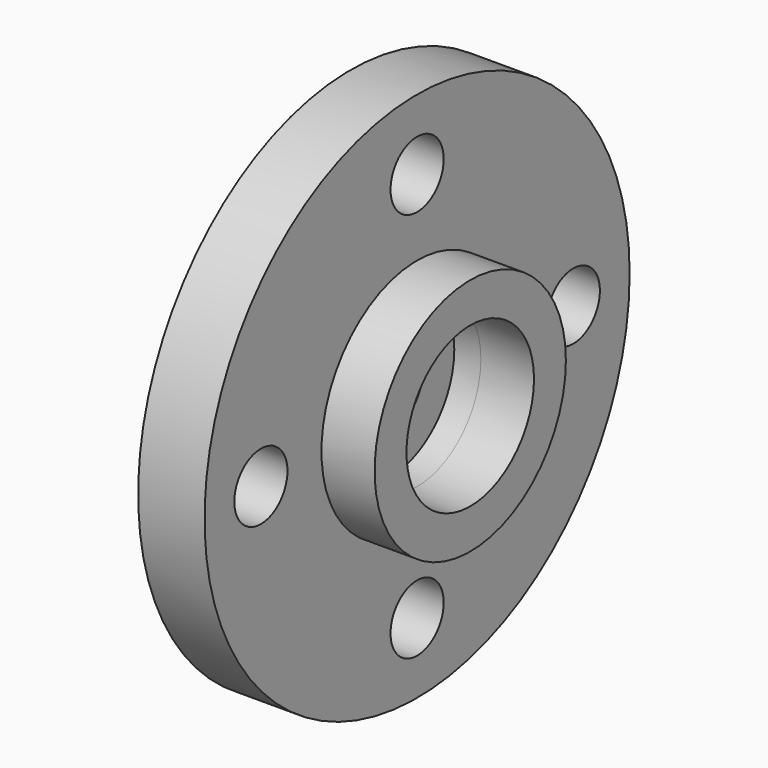
from build123d import *

# Parameters (mm, degrees)
SKETCH027_R     = 10
SKETCH027_R_2   = 1.55
SKETCH027_R_3   = 1.25
PAD025_DEPTH    = 2.5
SKETCH028_R     = 4.5
SKETCH028_R_2   = 3
PAD026_DEPTH    = 2
SKETCH029_R     = 3
POCKET008_DEPTH = 1


with BuildPart() as part:
    # Sketch027 → Pad025 (new body)
    with BuildSketch(Plane.YZ):
        Circle(SKETCH027_R)
        Circle(SKETCH027_R_2, mode=Mode.SUBTRACT)
        with Locations((-7.35, 0)):
            Circle(SKETCH027_R_3, mode=Mode.SUBTRACT)
        with Locations((0, -7.35)):
            Circle(SKETCH027_R_3, mode=Mode.SUBTRACT)
        with Locations((7.35, 0)):
            Circle(SKETCH027_R_3, mode=Mode.SUBTRACT)
        with Locations((0, 7.35)):
            Circle(SKETCH027_R_3, mode=Mode.SUBTRACT)
    extrude(amount=PAD025_DEPTH)

    # Sketch028 (on Face8 of Pad025) → Pad026 (join)
    with BuildSketch(Plane.YZ.offset(2.5)):
        Circle(SKETCH028_R)
        Circle(SKETCH028_R_2, mode=Mode.SUBTRACT)
    extrude(amount=PAD026_DEPTH)

    # Sketch029 (on Face10 of Pad026) → Pocket008 (cut)
    with BuildSketch(Plane.YZ.offset(2.5)):
        Circle(SKETCH029_R)
    extrude(amount=-POCKET008_DEPTH, mode=Mode.SUBTRACT)


with BuildPart() as part_1:
    # Body010 placement: moved
    add(part.part.moved(Location((-19.2, 11.3, 0))))


solid = part_1.part
